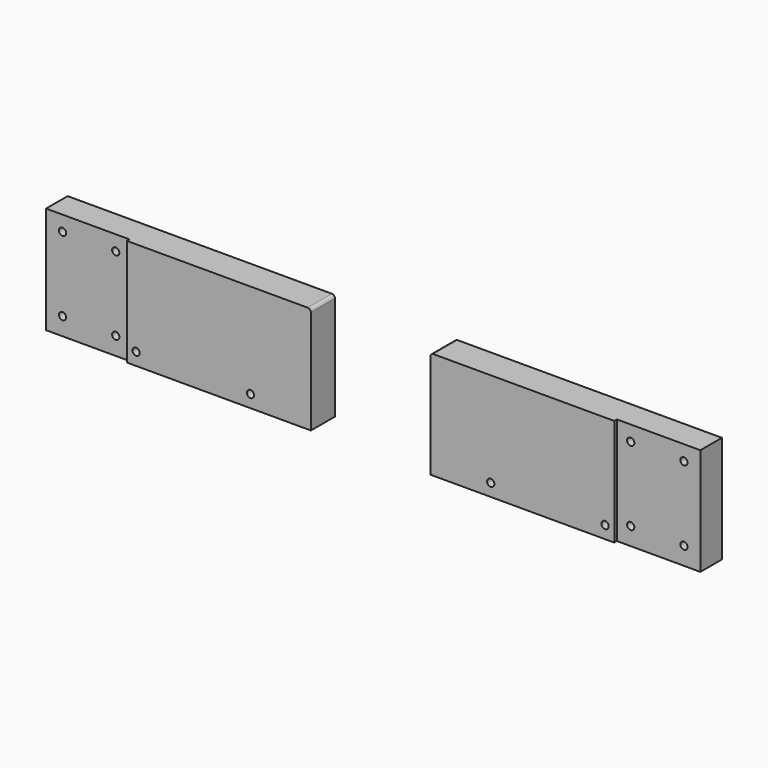
from build123d import *

# Parameters (mm, degrees)
F0_W     = 28
F0_H     = 16.3
F1_DEPTH = 4.6
F0_W_2   = 12.7
F2_DEPTH = 4.1
F3_D     = 1.1
F4_R     = 0.5


with BuildPart() as f1:
    # F0 (on Front) → F1 (new body)
    with BuildSketch(Plane.XZ):
        with Locations((-23.0835460886, 26.2454546378)):
            Rectangle(F0_W, F0_H)
    extrude(amount=F1_DEPTH)

    # F0 (on Front) → F2 (join)
    with BuildSketch(Plane.XZ):
        with Locations((-43.4335460886, 26.2454546378)):
            Rectangle(F0_W_2, F0_H)
    extrude(amount=F2_DEPTH)

    # F3 (through all)
    with Locations(Plane(origin=(0, 0, 0), x_dir=(1, 0, 0), z_dir=(0, 1, 0))):
        with Locations((-39.1835460886, -32.0954546378), (-47.2835460886, -32.0954546378), (-47.2835460886, -20.7954546378), (-39.1835460886, -20.7954546378), (-35.6835460886, -19.9954546378), (-18.2835460886, -19.9954546378)):
            Hole(F3_D / 2)

    # F4
    f4_edges = [f1.edges().sort_by_distance(p)[0] for p in [
        (-9.083546, -2.3, 34.395455),
    ]]
    fillet(f4_edges, radius=F4_R)


with BuildPart() as f5_1:
    # F5: instance of F1
    add(f1.part.mirror(Plane.YZ))


solid = Compound([f1.part, f5_1.part])
